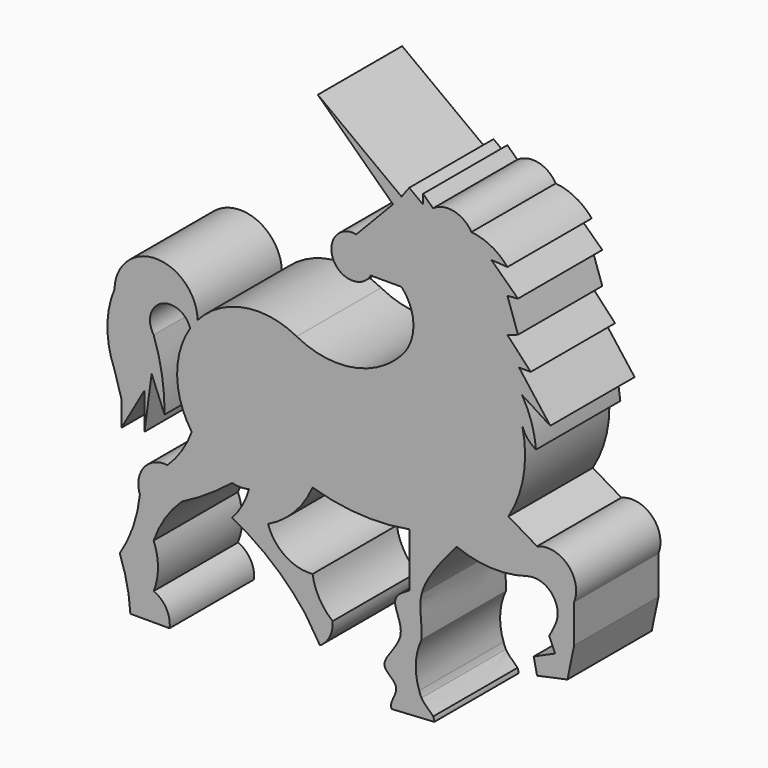
from build123d import *

# Parameters (mm, degrees)
F1_DEPTH = 50.8


with BuildPart() as f1:
    # F0 (on Front) → F1 (new body)
    with BuildSketch(Plane.XZ):
        with BuildLine():
            Line((157.3511064053, 226.7855703831), (117.0178577304, 256.9078505039))
            Line((117.0178577304, 256.9078505039), (153.2667279243, 222.1906334162))
            Line((153.2667279243, 222.1906334162), (135.5471188815, 203.6892712114))
            ThreePointArc((135.5471188815, 203.6892712114), (124.4679795229, 189.3777542773), (142.5452232361, 188.4945183992))
            Line((142.5452232361, 188.4945183992), (157.3511064053, 188.4945183992))
            ThreePointArc((157.3511064053, 188.4945183992), (163.0913283676, 173.9439144731), (157.3511064053, 159.3933105469))
            ThreePointArc((157.3511064053, 159.3933105469), (133.5218764448, 146.628732852), (106.8485764131, 151.0221039559))
            ThreePointArc((106.8485764131, 151.0221039559), (81.4826477265, 155.0355463169), (59.0786326768, 142.4817354462))
            ThreePointArc((59.0786326768, 142.4817354462), (57.1778936646, 140.1694279188), (55.4591871163, 137.7187907169))
            ThreePointArc((55.4591871163, 137.7187907169), (49.1972996165, 115.7594263547), (56.2388920861, 94.0375274104))
            ThreePointArc((56.2388920861, 94.0375274104), (51.4005357949, 84.435997918), (44.5201359689, 76.1740878224))
            ThreePointArc((44.5201359689, 76.1740878224), (33.1757105593, 71.4588467738), (31.2459021807, 59.3260265887))
            ThreePointArc((31.2459021807, 59.3260265887), (28.0144474885, 44.7267728634), (21.5454995632, 31.2459263951))
            ThreePointArc((21.5454995632, 31.2459263951), (25.0258299967, 19.4454210796), (26.6509782523, 7.2501958348))
            Line((26.6509782523, 7.2501958348), (45.5412305892, 7.2501958348))
            ThreePointArc((45.5412305892, 7.2501958348), (43.9865002742, 15.1994537749), (37.8830172122, 20.52443102))
            ThreePointArc((37.8830172122, 20.52443102), (39.9724122876, 31.2459263951), (37.8830172122, 41.9674217701))
            ThreePointArc((37.8830172122, 41.9674217701), (43.3657124777, 53.2576823746), (51.4005357949, 62.8998577595))
            ThreePointArc((51.4005357949, 62.8998577595), (63.9434482796, 70.1826306752), (75.6635218859, 78.7268280983))
            ThreePointArc((75.6635218859, 78.7268280983), (79.7479003668, 78.2162845135), (83.8322788477, 78.7268280983))
            ThreePointArc((83.8322788477, 78.7268280983), (80.62219761, 70.8415194676), (75.6635218859, 63.9209523797))
            ThreePointArc((75.6635218859, 63.9209523797), (94.8811032097, 51.3116760169), (110.8912838002, 34.8197567898))
            Line((110.8912838002, 34.8197567898), (118.0389523506, 23.5877130181))
            ThreePointArc((118.0389523506, 23.5877130181), (122.7991958663, 28.8657998516), (124.165520072, 35.8408465981))
            ThreePointArc((124.165520072, 35.8408465981), (117.7349645729, 43.3549786498), (114.4651249051, 52.6889152825))
            ThreePointArc((114.4651249051, 52.6889152825), (101.2536184714, 56.1015596962), (93.0221304297, 66.9842362404))
            ThreePointArc((93.0221304297, 66.9842362404), (105.7958752022, 76.2573128263), (114.4651249051, 89.4483178854))
            ThreePointArc((114.4651249051, 89.4483178854), (137.6729881459, 85.3431639936), (161.1937859731, 86.8362394266))
            Line((161.1937859731, 86.8362394266), (161.1937859731, 60.947837063))
            add(Edge.make_bspline(
                [(161.1937859731, 60.947837063), (157.8993693687, 59.0561358776), (150.6323180509, 54.8832909577), (162.2144334117, 39.9763215602), (143.2040633117, 24.6385665246), (159.3573781955, 18.7003155427), (150.8482458466, 9.9391907933), (152.7499995265, 7.8050355296)],
                knots=[0, 0, 0, 0, 0.0779334272, 0.1719109278, 0.2757758884, 0.3531240541, 0.4319815568, 0.4319815568, 0.4319815568, 0.4319815568], degree=3))
            Line((152.7499995265, 7.8050355296), (173.171891931, 9.0224858617))
            ThreePointArc((173.171891931, 9.0224858617), (172.9779809567, 10.1232568284), (172.664853356, 11.1962196856))
            add(Edge.make_bspline(
                [(172.664853356, 11.1962196856), (171.3313436819, 12.7085104711), (168.5824067748, 14.597468285), (167.0453242097, 17.1912484114)],
                knots=[0.5736467919, 0.5736467919, 0.5736467919, 0.5736467919, 0.6257117477, 0.6257117477, 0.6257117477, 0.6257117477], degree=3))
            add(Edge.make_bspline(
                [(167.0453242097, 17.1912484114), (166.5426299969, 18.0395296218), (166.169553332, 18.9631972351), (165.9011092746, 19.9468993754)],
                knots=[0.6257117477, 0.6257117477, 0.6257117477, 0.6257117477, 0.6427392989, 0.6427392989, 0.6427392989, 0.6427392989], degree=3))
            ThreePointArc((165.9011092746, 19.9468993754), (164.2768081704, 31.0782012829), (167.0453242097, 41.9813914203))
            add(Edge.make_bspline(
                [(167.0453242097, 41.9813914203), (167.3962963394, 49.2992780507), (165.4846355858, 55.0477309675), (167.0453242097, 61.3542387283)],
                knots=[0.7506807864, 0.7506807864, 0.7506807864, 0.7506807864, 0.8611546748, 0.8611546748, 0.8611546748, 0.8611546748], degree=3))
            add(Edge.make_bspline(
                [(167.0453242097, 61.3542387283), (169.0068222846, 69.2803571375), (176.4531944079, 78.0879710988), (183.8995665312, 86.8955850601)],
                knots=[0.8611546748, 0.8611546748, 0.8611546748, 0.8611546748, 1, 1, 1, 1], degree=3))
            ThreePointArc((183.8995665312, 86.8955850601), (200.6813055662, 83.248064902), (217.7208593273, 85.3892738977))
            ThreePointArc((217.7208593273, 85.3892738977), (229.8786920932, 81.8087152157), (231.4277632013, 69.2296183983))
            Line((231.4277632013, 69.2296183983), (228.5562352695, 63.4104087949))
            Line((228.5562352695, 63.4104087949), (231.4277632013, 57.001966241))
            Line((231.4277632013, 57.001966241), (221.0727564471, 52.3620415043))
            Line((221.0727564471, 52.3620415043), (222.7011620998, 44.7454368664))
            Line((222.7011620998, 44.7454368664), (237.3357014598, 47.8742544631))
            Line((237.3357014598, 47.8742544631), (240.5703216791, 63.4104087949))
            Line((240.5703216791, 63.4104087949), (240.5703216791, 81.790111959))
            ThreePointArc((240.5703216791, 81.790111959), (237.5070340931, 96.5959839523), (222.7011620998, 99.6592715383))
            Line((222.7011620998, 99.6592715383), (208.9163959026, 107.8280285001))
            ThreePointArc((208.9163959026, 107.8280285001), (216.2226754166, 127.6019199845), (215.5535072088, 148.6718207598))
            ThreePointArc((215.5535072088, 148.6718207598), (218.0854842896, 143.9483475476), (222.190618515, 140.503063798))
            ThreePointArc((222.190618515, 140.503063798), (220.0514151702, 151.3432226251), (215.5535072088, 161.4354997873))
            Line((215.5535072088, 161.4354997873), (229.0830209851, 152.8838410974))
            Line((229.0830209851, 152.8838410974), (214.0218615532, 172.6675480604))
            Line((214.0218615532, 172.6675480604), (219.6378856897, 172.6675480604))
            Line((219.6378856897, 172.6675480604), (208.4058374166, 184.6981031667))
            Line((208.4058374166, 184.6981031667), (213.5113179684, 186.4523291588))
            Line((213.5113179684, 186.4523291588), (208.4058374166, 201.3112651118))
            Line((208.4058374166, 201.3112651118), (213.5113179684, 201.7687410116))
            Line((213.5113179684, 201.7687410116), (200.6355195315, 214.0218764544))
            Line((200.6355195315, 214.0218764544), (208.4058374166, 213.5113328695))
            ThreePointArc((208.4058374166, 213.5113328695), (200.6355195315, 219.8232430535), (191.0472214222, 222.7011919022))
            ThreePointArc((191.0472214222, 222.7011919022), (182.6973201136, 228.8132361759), (172.5500786904, 226.7855703831))
            Line((172.5500786904, 226.7855703831), (167.7524379956, 231.3804924488))
            Line((167.7524379956, 231.3804924488), (167.7524379956, 226.7855703831))
            Line((167.7524379956, 226.7855703831), (161.0753406305, 231.77226012))
            Line((161.0753406305, 231.77226012), (157.3511064053, 226.7855703831))
        make_face()
        with BuildLine():
            ThreePointArc((55.4591871163, 137.7187907169), (57.1778936646, 140.1694279188), (59.0786326768, 142.4817354462))
            ThreePointArc((59.0786326768, 142.4817354462), (39.0356978447, 161.9894984881), (18.9927630126, 142.4817354462))
            ThreePointArc((18.9927630126, 142.4817354462), (15.5809128086, 125.4101537656), (18.9927630126, 108.3385720849))
            Line((18.9927630126, 108.3385720849), (22.309999913, 97.1100777388))
            Line((22.309999913, 97.1100777388), (22.309999913, 84.7518071532))
            Line((22.309999913, 84.7518071532), (33.4528027138, 104.264870286))
            Line((33.4528027138, 104.264870286), (33.4528027138, 86.6916491587))
            Line((33.4528027138, 86.6916491587), (36.9130928491, 112.466349486))
            Line((36.9130928491, 112.466349486), (43.123934418, 97.1100777388))
            ThreePointArc((43.123934418, 97.1100777388), (41.9493193566, 113.4261599819), (37.8830172122, 129.2710155249))
            ThreePointArc((37.8830172122, 129.2710155249), (41.7069327363, 143.8231946906), (55.4591871163, 137.7187907169))
        make_face()
    extrude(amount=F1_DEPTH)


solid = f1.part
